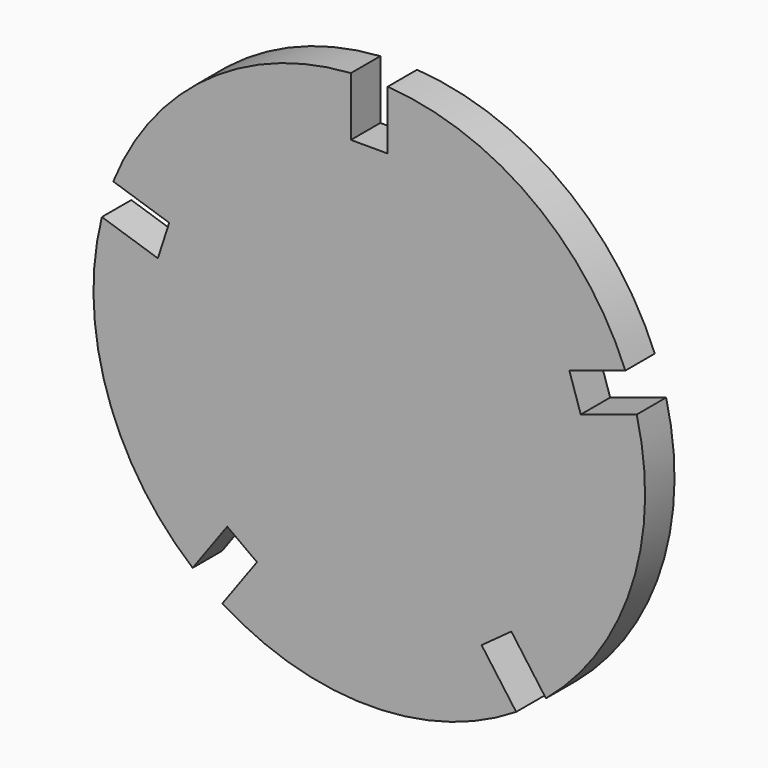
from build123d import *

# Parameters (mm, degrees)
F1_DEPTH = 0.635


with BuildPart() as f1:
    # F0 (on Front) → F1 (new body, symmetric)
    with BuildSketch(Plane.XZ):
        with BuildLine():
            Line((-0.635, 7.47181), (-0.635, 9.50381))
            ThreePointArc((-0.635, 9.50381), (-5.598655, 7.705887), (-8.842434, 3.54076))
            Line((-8.842434, 3.54076), (-6.909888, 2.912837))
            Line((-6.909888, 2.912837), (-7.302339, 1.704995))
            Line((-7.302339, 1.704995), (-9.234886, 2.332918))
            ThreePointArc((-9.234886, 2.332918), (-9.058813, -2.943387), (-6.099925, -7.3155))
            Line((-6.099925, -7.3155), (-4.905545, -5.671577))
            Line((-4.905545, -5.671577), (-3.878094, -6.418065))
            Line((-3.878094, -6.418065), (-5.072473, -8.061987))
            ThreePointArc((-5.072473, -8.061987), (0, -9.525), (5.072473, -8.061987))
            Line((5.072473, -8.061987), (3.878094, -6.418065))
            Line((3.878094, -6.418065), (4.905545, -5.671577))
            Line((4.905545, -5.671577), (6.099925, -7.3155))
            ThreePointArc((6.099925, -7.3155), (9.058813, -2.943387), (9.234886, 2.332918))
            Line((9.234886, 2.332918), (7.302339, 1.704995))
            Line((7.302339, 1.704995), (6.909888, 2.912837))
            Line((6.909888, 2.912837), (8.842434, 3.54076))
            ThreePointArc((8.842434, 3.54076), (5.598655, 7.705887), (0.635, 9.50381))
            Line((0.635, 9.50381), (0.635, 7.47181))
            Line((0.635, 7.47181), (-0.635, 7.47181))
        make_face()
    extrude(amount=F1_DEPTH, both=True)


solid = f1.part
